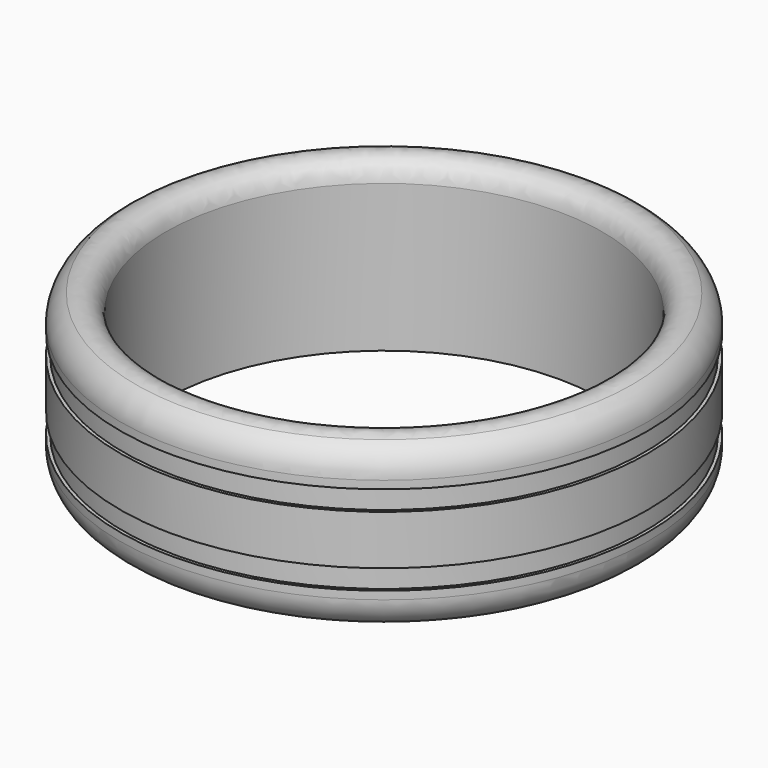
from build123d import *

# Parameters (mm, degrees)
F0_R     = 13.3
F0_R_2   = 11
F1_DEPTH = 8.5
F2_R     = 1.6
F3_R     = 1
F4_W     = 0.8
F4_H     = 1


with BuildPart() as f1:
    # F0 (on Top) → F1 (new body)
    with BuildSketch(Plane.XY):
        Circle(F0_R)
        Circle(F0_R_2, mode=Mode.SUBTRACT)
    extrude(amount=F1_DEPTH)

    # F2
    f2_edges = [f1.edges().sort_by_distance(p)[0] for p in [
        (-13.3, 0, 8.5),
        (-13.3, 0, 0),
    ]]
    fillet(f2_edges, radius=F2_R)

    # F3
    f3_edges = [f1.edges().sort_by_distance(p)[0] for p in [
        (-11, 0, 8.5),
    ]]
    fillet(f3_edges, radius=F3_R)

    # F5: sweep along a path in F5_path
    with BuildLine(Plane(origin=(13.3, 0, 6.9), x_dir=(0, -1, 0), z_dir=(0, 0, -1))) as f5_path:
        CenterArc((0, 13.3), 13.3, 0, 360)
    # F4 (on Front) → F5 (sweep, cut)
    with BuildSketch(Plane.XZ):
        with Locations((-13.5362976592, 6)):
            Rectangle(F4_W, F4_H)
        with Locations((-13.5362976592, 2.5)):
            Rectangle(F4_W, F4_H)
    sweep(path=f5_path.line, mode=Mode.SUBTRACT)


solid = f1.part
